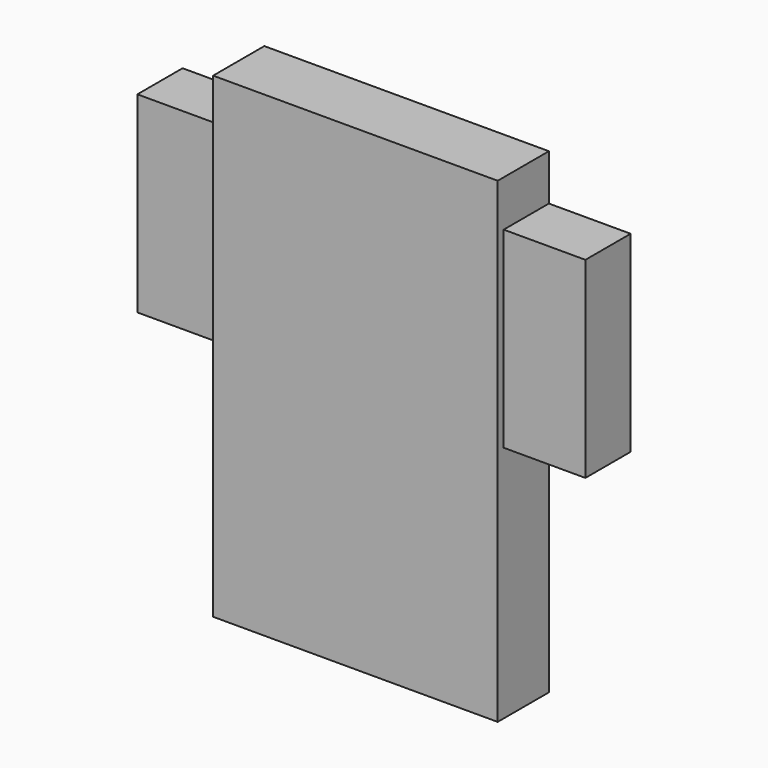
from build123d import *

# Parameters (mm, degrees)
F0_W     = 177.8
F0_H     = 76.2
F1_DEPTH = 22.427941
F2_W     = 112.92833
F2_H     = 189.059824
F3_DEPTH = 25.4


with BuildPart() as f1:
    # F0 (on Front) → F1 (new body)
    with BuildSketch(Plane.XZ):
        Rectangle(F0_W, F0_H)
    extrude(amount=F1_DEPTH)

    # F2 (on Front) → F3 (join)
    with BuildSketch(Plane.XZ):
        with Locations((0, -38.147524)):
            Rectangle(F2_W, F2_H)
    extrude(amount=F3_DEPTH)


solid = f1.part
